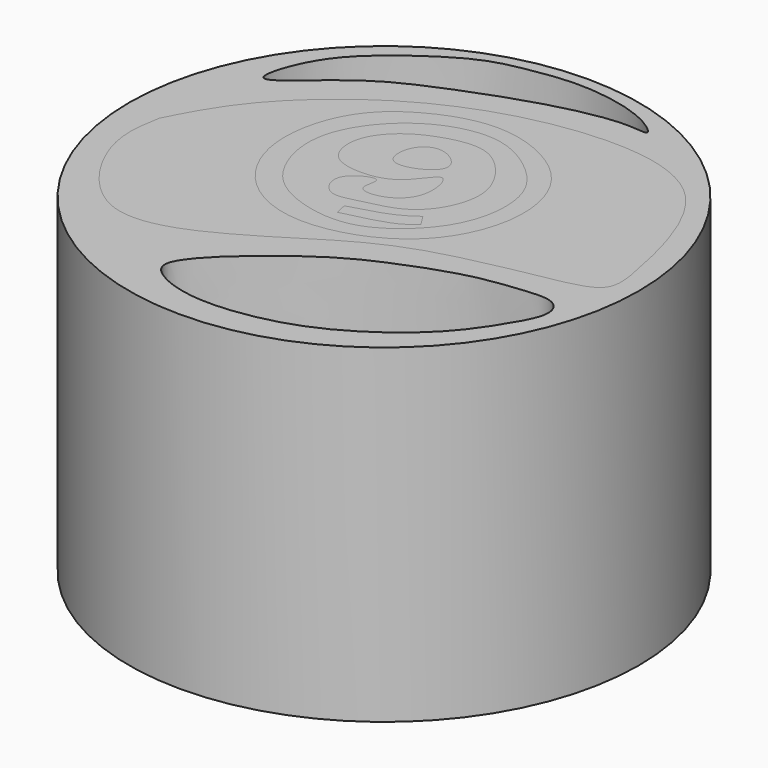
from build123d import *

# Parameters (mm, degrees)
F0_R     = 38.6659322754
F1_DEPTH = 50
F2_DEPTH = 50
F3_DEPTH = 50
F4_DEPTH = 50
F5_DEPTH = 50
F6_DEPTH = 50
F7_DEPTH = 50
F8_DEPTH = 40
F9_DEPTH = 40


with BuildPart() as f1:
    # F0 (on Top) → F1 (new body)
    with BuildSketch(Plane.XY):
        with Locations((-45.3650403162, -32.3347761936)):
            Circle(F0_R)
        with BuildLine():
            add(Edge.make_bspline(
                [(-54.7016225755, -61.4519938827), (-55.038068733, -62.6771678404), (-53.6073343695, -64.502155864), (-49.1451212889, -66.3518812301), (-42.6936970652, -66.8691706305), (-33.1019343922, -65.121619366), (-24.6620708073, -60.5848069338), (-17.7412208584, -54.8274695961), (-13.6716510885, -48.7618635261), (-10.8028400201, -43.5179440913), (-12.8916773817, -40.2490689014), (-18.3596364718, -40.8662479371), (-24.6839371249, -41.4698387567), (-35.3784572572, -45.410015808), (-43.3172820804, -49.6325540027), (-53.9356947261, -58.6628556101), (-54.7016225755, -61.4519938827)],
                knots=[0, 0, 0, 0, 0.0457129247, 0.1028803277, 0.1704155316, 0.2530513413, 0.3358137118, 0.4150699765, 0.48796377, 0.5501420945, 0.5947676564, 0.6536916034, 0.7224041444, 0.8096181068, 0.8959334167, 1, 1, 1, 1], degree=3))
        make_face(mode=Mode.SUBTRACT)
        with BuildLine():
            add(Edge.make_bspline(
                [(-75.5126699805, -17.4611527473), (-76.3335675946, -16.9995170078), (-74.1587443341, -9.5205286032), (-67.6035404498, -3.3780823489), (-58.7291541186, 2.6847318054), (-51.9522988242, 3.8765253803), (-44.9206469021, 5.0349231616), (-34.9168532789, 3.3516063034), (-30.0217203512, -0.617327472), (-35.1834071565, 0.4895859201), (-45.6013891316, -1.6304503805), (-58.1848429341, -6.4190844434), (-67.1455988693, -10.604092752), (-74.5365328621, -18.0100881721), (-75.5126699805, -17.4611527473)],
                knots=[0, 0, 0, 0, 0.0742446644, 0.1664327744, 0.2596708882, 0.3341457452, 0.4113165286, 0.5058781983, 0.5624598575, 0.6114863995, 0.7079559981, 0.8140301699, 0.9117149672, 1, 1, 1, 1], degree=3))
        make_face(mode=Mode.SUBTRACT)
        with BuildLine():
            add(Edge.make_bspline(
                [(-78.7273868918, -33.1963375211), (-79.215124952, -35.864838231), (-80.3652267523, -42.1572474591), (-69.4042392844, -58.9456941615), (-52.5538311184, -50.9849839857), (-42.8741984673, -44.3573429724), (-32.9730376498, -39.4369914934), (-21.483962252, -37.2934564403), (-14.9406697601, -36.0726639628)],
                knots=[0, 0, 0, 0, 0.1347533385, 0.3177526421, 0.4985640781, 0.656404172, 0.8043142791, 1, 1, 1, 1], degree=3))
            add(Edge.make_bspline(
                [(-14.9406697601, -36.0726639628), (-13.079967013, -35.6179731974), (-9.1091044323, -34.647633067), (-10.3455791002, -26.9867205892), (-15.0976412841, -6.9609509242), (-34.8008831144, -2.9591924602), (-57.3970234982, -8.989753811), (-73.1969108094, -22.5141578639), (-77.0630544762, -29.9816598681), (-78.7273868918, -33.1963375211)],
                knots=[0, 0, 0, 0, 0.0857863898, 0.1830738228, 0.3502156156, 0.5112162953, 0.6971000209, 0.8696048835, 1, 1, 1, 1], degree=3))
        make_face(mode=Mode.SUBTRACT)
    extrude(amount=F1_DEPTH)


with BuildPart() as f2:
    # F0 (on Top) → F2 (new body)
    with BuildSketch(Plane.XY):
        with BuildLine():
            add(Edge.make_bspline(
                [(-14.9406697601, -36.0726639628), (-13.079967013, -35.6179731974), (-9.1091044323, -34.647633067), (-10.3455791002, -26.9867205892), (-15.0976412841, -6.9609509242), (-34.8008831144, -2.9591924602), (-57.3970234982, -8.989753811), (-73.1969108094, -22.5141578639), (-77.0630544762, -29.9816598681), (-78.7273868918, -33.1963375211)],
                knots=[0, 0, 0, 0, 0.0857863898, 0.1830738228, 0.3502156156, 0.5112162953, 0.6971000209, 0.8696048835, 1, 1, 1, 1], degree=3))
            add(Edge.make_bspline(
                [(-78.7273868918, -33.1963375211), (-79.215124952, -35.864838231), (-80.3652267523, -42.1572474591), (-69.4042392844, -58.9456941615), (-52.5538311184, -50.9849839857), (-42.8741984673, -44.3573429724), (-32.9730376498, -39.4369914934), (-21.483962252, -37.2934564403), (-14.9406697601, -36.0726639628)],
                knots=[0, 0, 0, 0, 0.1347533385, 0.3177526421, 0.4985640781, 0.656404172, 0.8043142791, 1, 1, 1, 1], degree=3))
        make_face()
        with BuildLine():
            add(Edge.make_bspline(
                [(-40.1508063078, -41.3177236915), (-37.1262590305, -39.9255318002), (-32.1132277049, -35.8099329344), (-28.6995753307, -25.3856677611), (-32.1069468338, -14.5251621518), (-44.1392296252, -8.805129352), (-54.1812410216, -11.4861499358), (-61.6659223694, -16.8372163902), (-64.6188730169, -25.5212416819), (-63.7491871524, -33.3794665386), (-59.2204753187, -40.2666755963), (-50.7033983089, -44.272663015), (-43.3557173122, -42.7929365757), (-40.1508063078, -41.3177236915)],
                knots=[0, 0, 0, 0, 0.0909511451, 0.1855967984, 0.2809843363, 0.3837198287, 0.4770353082, 0.5646233384, 0.6515812975, 0.733303759, 0.8157150779, 0.9036251382, 1, 1, 1, 1], degree=3))
        make_face(mode=Mode.SUBTRACT)
    extrude(amount=F2_DEPTH)


with BuildPart() as f3:
    # F0 (on Top) → F3 (new body)
    with BuildSketch(Plane.XY):
        with BuildLine():
            add(Edge.make_bspline(
                [(-40.1508063078, -41.3177236915), (-37.1262590305, -39.9255318002), (-32.1132277049, -35.8099329344), (-28.6995753307, -25.3856677611), (-32.1069468338, -14.5251621518), (-44.1392296252, -8.805129352), (-54.1812410216, -11.4861499358), (-61.6659223694, -16.8372163902), (-64.6188730169, -25.5212416819), (-63.7491871524, -33.3794665386), (-59.2204753187, -40.2666755963), (-50.7033983089, -44.272663015), (-43.3557173122, -42.7929365757), (-40.1508063078, -41.3177236915)],
                knots=[0, 0, 0, 0, 0.0909511451, 0.1855967984, 0.2809843363, 0.3837198287, 0.4770353082, 0.5646233384, 0.6515812975, 0.733303759, 0.8157150779, 0.9036251382, 1, 1, 1, 1], degree=3))
        make_face()
        with BuildLine():
            add(Edge.make_bspline(
                [(-41.504368186, -39.2873771489), (-39.2364213899, -38.1527152671), (-34.8687899773, -34.3708621479), (-32.194705672, -27.6268100459), (-32.7285985558, -20.5263246274), (-37.247385951, -15.4269712838), (-44.3417460035, -11.3412939349), (-54.9669686281, -14.1857036119), (-62.2182722562, -23.9380008023), (-60.3180951896, -33.0948941176), (-56.033229913, -38.504512422), (-47.8935996444, -41.0742760709), (-43.5497064806, -40.3106672023), (-41.504368186, -39.2873771489)],
                knots=[0, 0, 0, 0, 0.0919820127, 0.1786267212, 0.2621848347, 0.3449012534, 0.4346098618, 0.5381234331, 0.6470396329, 0.7417412588, 0.825135784, 0.9170464081, 1, 1, 1, 1], degree=3))
        make_face(mode=Mode.SUBTRACT)
    extrude(amount=F3_DEPTH)


with BuildPart() as f4:
    # F0 (on Top) → F4 (new body)
    with BuildSketch(Plane.XY):
        with BuildLine():
            add(Edge.make_bspline(
                [(-48.7797781825, -29.4740367681), (-48.3533984242, -29.8825863003), (-49.8913681297, -32.893882539), (-44.7213784138, -32.8034128983), (-41.1198254237, -29.1691247184), (-42.8173216191, -22.100526692), (-45.862415762, -28.3360738629), (-51.532020805, -29.5619892212), (-56.6980114419, -28.3114221435), (-57.7092621048, -22.9566286967), (-54.7352480239, -18.5995159189), (-49.9552538624, -16.024170547), (-43.4445789564, -14.6673201529), (-38.8245771603, -18.784505435), (-35.9572055207, -24.2685106977), (-37.8728690161, -30.443029384), (-41.7728407219, -33.979843048), (-47.1527165471, -34.9091706078), (-51.3603052162, -36.2839769244), (-54.1519938256, -31.1401193154), (-49.3308913189, -28.9459699223), (-48.7797781825, -29.4740367681)],
                knots=[0, 0, 0, 0, 0.0384169622, 0.0830778643, 0.1376700858, 0.1879654236, 0.2380116338, 0.2965140142, 0.3485437044, 0.3997823098, 0.4533412543, 0.5096707345, 0.5693688527, 0.6268666107, 0.6854895026, 0.7443155544, 0.7984022413, 0.8547587614, 0.9023521136, 0.9503445177, 1, 1, 1, 1], degree=3))
        make_face()
        with BuildLine():
            add(Edge.make_bspline(
                [(-44.211499393, -21.5218458325), (-44.3025699732, -20.3635699239), (-47.2717347847, -17.9049332285), (-51.0903377464, -19.7981275388), (-51.32034137, -25.2242789309), (-46.5825333795, -24.6339815281), (-44.1245918772, -22.6271740471), (-44.211499393, -21.5218458325)],
                knots=[0, 0, 0, 0, 0.2073983502, 0.4011761535, 0.6038567541, 0.802082348, 1, 1, 1, 1], degree=3))
        make_face(mode=Mode.SUBTRACT)
    extrude(amount=F4_DEPTH)


with BuildPart() as f5:
    # F0 (on Top) → F5 (new body)
    with BuildSketch(Plane.XY):
        with BuildLine():
            add(Edge.make_bspline(
                [(-41.504368186, -39.2873771489), (-39.2364213899, -38.1527152671), (-34.8687899773, -34.3708621479), (-32.194705672, -27.6268100459), (-32.7285985558, -20.5263246274), (-37.247385951, -15.4269712838), (-44.3417460035, -11.3412939349), (-54.9669686281, -14.1857036119), (-62.2182722562, -23.9380008023), (-60.3180951896, -33.0948941176), (-56.033229913, -38.504512422), (-47.8935996444, -41.0742760709), (-43.5497064806, -40.3106672023), (-41.504368186, -39.2873771489)],
                knots=[0, 0, 0, 0, 0.0919820127, 0.1786267212, 0.2621848347, 0.3449012534, 0.4346098618, 0.5381234331, 0.6470396329, 0.7417412588, 0.825135784, 0.9170464081, 1, 1, 1, 1], degree=3))
        make_face()
        with BuildLine():
            Line((-47.1767112613, -38.8786420226), (-47.5954078138, -37.0878353715))
            add(Edge.make_bspline(
                [(-47.5954078138, -37.0878353715), (-45.2903908471, -36.4487430428), (-41.37042165, -35.3618867294), (-39.4282025426, -33.948019128), (-38.6280454695, -33.3655327559)],
                knots=[0, 0, 0, 0, 0.5880191529, 1, 1, 1, 1], degree=3))
            Line((-38.6280454695, -33.3655327559), (-37.5109575689, -35.156019032))
            add(Edge.make_bspline(
                [(-47.1767112613, -38.8786420226), (-44.4146879263, -38.2371170212), (-39.9354324492, -37.196736826), (-38.1828521079, -35.7215629989), (-37.5109575689, -35.156019032)],
                knots=[0, 0, 0, 0, 0.6166255417, 1, 1, 1, 1], degree=3))
        make_face(mode=Mode.SUBTRACT)
        with BuildLine():
            add(Edge.make_bspline(
                [(-48.7797781825, -29.4740367681), (-48.3533984242, -29.8825863003), (-49.8913681297, -32.893882539), (-44.7213784138, -32.8034128983), (-41.1198254237, -29.1691247184), (-42.8173216191, -22.100526692), (-45.862415762, -28.3360738629), (-51.532020805, -29.5619892212), (-56.6980114419, -28.3114221435), (-57.7092621048, -22.9566286967), (-54.7352480239, -18.5995159189), (-49.9552538624, -16.024170547), (-43.4445789564, -14.6673201529), (-38.8245771603, -18.784505435), (-35.9572055207, -24.2685106977), (-37.8728690161, -30.443029384), (-41.7728407219, -33.979843048), (-47.1527165471, -34.9091706078), (-51.3603052162, -36.2839769244), (-54.1519938256, -31.1401193154), (-49.3308913189, -28.9459699223), (-48.7797781825, -29.4740367681)],
                knots=[0, 0, 0, 0, 0.0384169622, 0.0830778643, 0.1376700858, 0.1879654236, 0.2380116338, 0.2965140142, 0.3485437044, 0.3997823098, 0.4533412543, 0.5096707345, 0.5693688527, 0.6268666107, 0.6854895026, 0.7443155544, 0.7984022413, 0.8547587614, 0.9023521136, 0.9503445177, 1, 1, 1, 1], degree=3))
        make_face(mode=Mode.SUBTRACT)
    extrude(amount=F5_DEPTH)


with BuildPart() as f6:
    # F0 (on Top) → F6 (new body)
    with BuildSketch(Plane.XY):
        with BuildLine():
            add(Edge.make_bspline(
                [(-44.211499393, -21.5218458325), (-44.3025699732, -20.3635699239), (-47.2717347847, -17.9049332285), (-51.0903377464, -19.7981275388), (-51.32034137, -25.2242789309), (-46.5825333795, -24.6339815281), (-44.1245918772, -22.6271740471), (-44.211499393, -21.5218458325)],
                knots=[0, 0, 0, 0, 0.2073983502, 0.4011761535, 0.6038567541, 0.802082348, 1, 1, 1, 1], degree=3))
        make_face()
    extrude(amount=F6_DEPTH)


with BuildPart() as f7:
    # F0 (on Top) → F7 (new body)
    with BuildSketch(Plane.XY):
        with BuildLine():
            add(Edge.make_bspline(
                [(-47.5954078138, -37.0878353715), (-45.2903908471, -36.4487430428), (-41.37042165, -35.3618867294), (-39.4282025426, -33.948019128), (-38.6280454695, -33.3655327559)],
                knots=[0, 0, 0, 0, 0.5880191529, 1, 1, 1, 1], degree=3))
            Line((-47.5954078138, -37.0878353715), (-47.1767112613, -38.8786420226))
            add(Edge.make_bspline(
                [(-47.1767112613, -38.8786420226), (-44.4146879263, -38.2371170212), (-39.9354324492, -37.196736826), (-38.1828521079, -35.7215629989), (-37.5109575689, -35.156019032)],
                knots=[0, 0, 0, 0, 0.6166255417, 1, 1, 1, 1], degree=3))
            Line((-37.5109575689, -35.156019032), (-38.6280454695, -33.3655327559))
        make_face()
    extrude(amount=F7_DEPTH)


with BuildPart() as f8:
    # F0 (on Top) → F8 (new body)
    with BuildSketch(Plane.XY):
        with BuildLine():
            add(Edge.make_bspline(
                [(-54.7016225755, -61.4519938827), (-55.038068733, -62.6771678404), (-53.6073343695, -64.502155864), (-49.1451212889, -66.3518812301), (-42.6936970652, -66.8691706305), (-33.1019343922, -65.121619366), (-24.6620708073, -60.5848069338), (-17.7412208584, -54.8274695961), (-13.6716510885, -48.7618635261), (-10.8028400201, -43.5179440913), (-12.8916773817, -40.2490689014), (-18.3596364718, -40.8662479371), (-24.6839371249, -41.4698387567), (-35.3784572572, -45.410015808), (-43.3172820804, -49.6325540027), (-53.9356947261, -58.6628556101), (-54.7016225755, -61.4519938827)],
                knots=[0, 0, 0, 0, 0.0457129247, 0.1028803277, 0.1704155316, 0.2530513413, 0.3358137118, 0.4150699765, 0.48796377, 0.5501420945, 0.5947676564, 0.6536916034, 0.7224041444, 0.8096181068, 0.8959334167, 1, 1, 1, 1], degree=3))
        make_face()
    extrude(amount=F8_DEPTH)


with BuildPart() as f9:
    # F0 (on Top) → F9 (new body)
    with BuildSketch(Plane.XY):
        with BuildLine():
            add(Edge.make_bspline(
                [(-75.5126699805, -17.4611527473), (-76.3335675946, -16.9995170078), (-74.1587443341, -9.5205286032), (-67.6035404498, -3.3780823489), (-58.7291541186, 2.6847318054), (-51.9522988242, 3.8765253803), (-44.9206469021, 5.0349231616), (-34.9168532789, 3.3516063034), (-30.0217203512, -0.617327472), (-35.1834071565, 0.4895859201), (-45.6013891316, -1.6304503805), (-58.1848429341, -6.4190844434), (-67.1455988693, -10.604092752), (-74.5365328621, -18.0100881721), (-75.5126699805, -17.4611527473)],
                knots=[0, 0, 0, 0, 0.0742446644, 0.1664327744, 0.2596708882, 0.3341457452, 0.4113165286, 0.5058781983, 0.5624598575, 0.6114863995, 0.7079559981, 0.8140301699, 0.9117149672, 1, 1, 1, 1], degree=3))
        make_face()
    extrude(amount=F9_DEPTH)


solid = Compound([f1.part, f2.part, f3.part, f4.part, f5.part, f6.part, f7.part, f8.part, f9.part])
